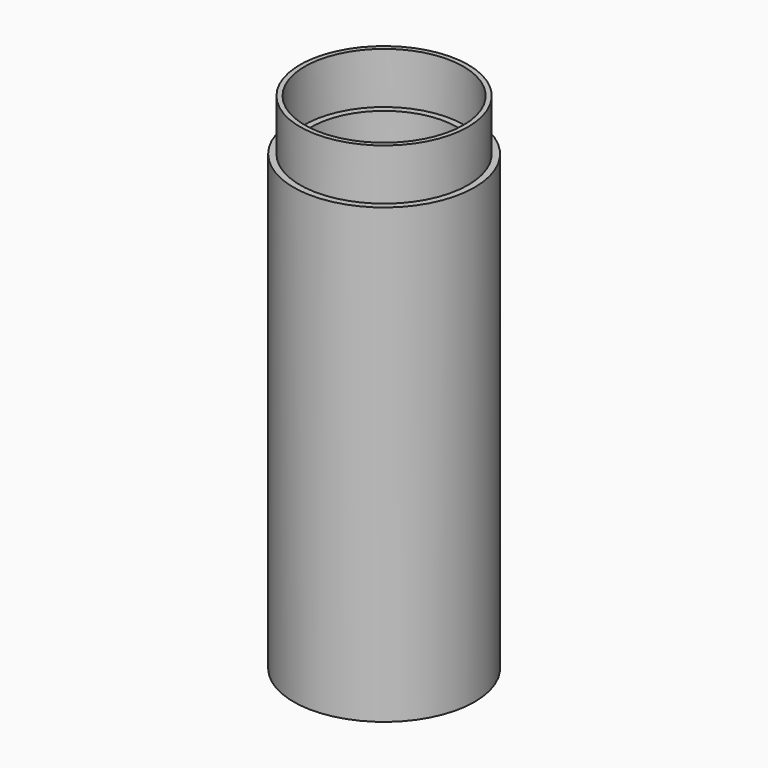
from build123d import *

# Parameters (mm, degrees)
F0_W   = 1.5
F0_H   = 13
F0_W_2 = 1.2


with BuildPart() as f1:
    # F0 (on Front) → F1 (revolve)
    with BuildSketch(Plane.XZ):
        with BuildLine():
            Line((20, 87.5), (20, 44.5))
            Line((20, 44.5), (23, 44.5))
            Line((23, 44.5), (23, 102))
            Line((23, 102), (21.35, 102))
            Line((21.35, 102), (20.15, 102))
            Line((20.15, 102), (18.5, 102))
            Line((18.5, 102), (18.5, 89))
            ThreePointArc((18.5, 89), (19.56066, 88.56066), (20, 87.5))
        make_face()
        Polygon((20, 1.5), (20, 0), (21.5, 0), (23, 0), (23, 44.5), (20, 44.5), align=None)
        with Locations((22.25, -6.5)):
            Rectangle(F0_W, F0_H)
        with Locations((19.25, -6.5)):
            Rectangle(F0_W, F0_H)
        with BuildLine():
            ThreePointArc((20, 1.5), (19.56066, 0.43934), (18.5, 0))
            Line((18.5, 0), (20, 0))
            Line((20, 0), (20, 1.5))
        make_face()
        with Locations((20.75, 108.5)):
            Rectangle(F0_W_2, F0_H)
    revolve(axis=Axis((0, 0, 51), (0, 0, 1)))


solid = f1.part
